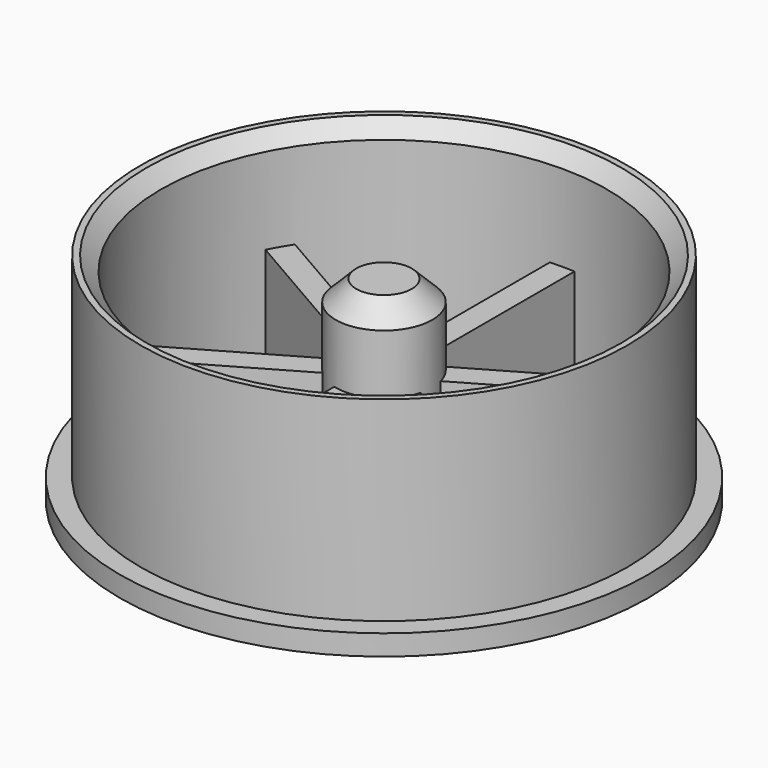
from build123d import *

# Parameters (mm, degrees)
F0_R      = 11.85
F0_R_2    = 10.85
F1_DEPTH  = 9.5
F2_R      = 12.85
F2_R_2    = 10.85
F3_DEPTH  = 1
F4_R      = 2.35
F5_DEPTH  = 9.5
F6_R      = 1.15
F7_DEPTH  = 8
F8_SIZE   = 1
F10_SIZE  = 0.7
F12_DEPTH = 4.6
F13_COUNT = 6


with BuildPart() as f1:
    # F0 (on Top) → F1 (new body)
    with BuildSketch(Plane.XY):
        Circle(F0_R)
        Circle(F0_R_2, mode=Mode.SUBTRACT)
    extrude(amount=F1_DEPTH)

    # F2 (on face) → F3 (join)
    with BuildSketch(Plane(origin=(0, 0, 0), x_dir=(1, 0, 0), z_dir=(0, 0, -1))):
        Circle(F2_R)
        Circle(F2_R_2, mode=Mode.SUBTRACT)
    extrude(amount=F3_DEPTH)

    # F10
    f10_edges = [f1.edges().sort_by_distance(p)[0] for p in [
        (-10.85, 0, 9.5),
    ]]
    chamfer(f10_edges, length=F10_SIZE)



with BuildPart() as f5:
    # F4 (on face) → F5 (new body)
    with BuildSketch(Plane(origin=(0, 0, -1), x_dir=(1, 0, 0), z_dir=(0, 0, -1))):
        Circle(F4_R)
    extrude(amount=-F5_DEPTH)

    # F6 (on face) → F7 (cut)
    with BuildSketch(Plane(origin=(0, 0, -1), x_dir=(1, 0, 0), z_dir=(0, 0, -1))):
        Circle(F6_R)
    extrude(amount=-F7_DEPTH, mode=Mode.SUBTRACT)

    # F8
    f8_edges = [f5.edges().sort_by_distance(p)[0] for p in [
        (-2.35, 0, 8.5),
    ]]
    chamfer(f8_edges, length=F8_SIZE)


with BuildPart() as f1_1:
    add(f1.part)

    add(f5.part)  # F12 merges F5
    # F11 (on Top) → F12 (join)
    with BuildSketch(Plane.XY):
        with BuildLine():
            Line((-0.6, -2.2721135535), (-0.6, -10.8333974357))
            ThreePointArc((-0.6, -10.8333974357), (0, -10.85), (0.6, -10.8333974357))
            Line((0.6, -10.8333974357), (0.6, -2.2721135535))
            ThreePointArc((0.6, -2.2721135535), (0, -2.35), (-0.6, -2.2721135535))
        make_face()
    extrude(amount=F12_DEPTH)

    # F13: F1 ×6 about axis
    f13_axis = Axis((0, 0, 0), (0, 0, -1))


with BuildPart() as f1_2:
    add(f1_1.part)
    for i in range(1, F13_COUNT):
        add(f1_1.part.rotate(f13_axis, i * 360 / F13_COUNT))


solid = f1_2.part
